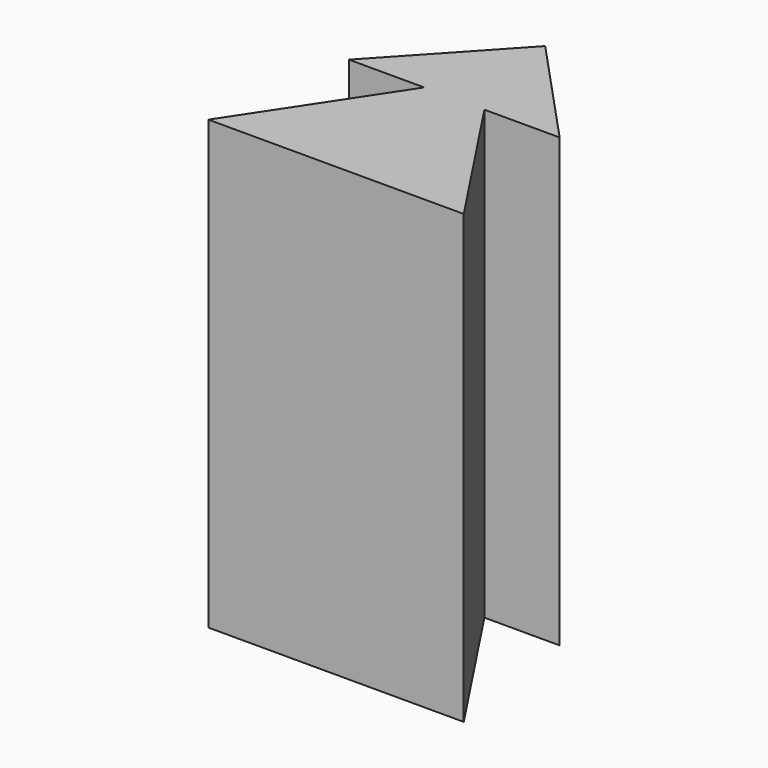
from build123d import *

# Parameters (mm, degrees)
F1_DEPTH = 50.5


with BuildPart() as f1:
    # F0 (on Top) → F1 (new body, symmetric)
    with BuildSketch(Plane.XY):
        Polygon((23.801152587, 17.6742726938), (0, 43.3356275983), (-23.7968525468, 17.6702850355), (-6.7968525468, 17.6702850355), (-28.843924215, -15.7052543737), (28.8421864272, -15.7052543737), (6.801152587, 17.6742726938), align=None)
    extrude(amount=F1_DEPTH, both=True)


solid = f1.part
